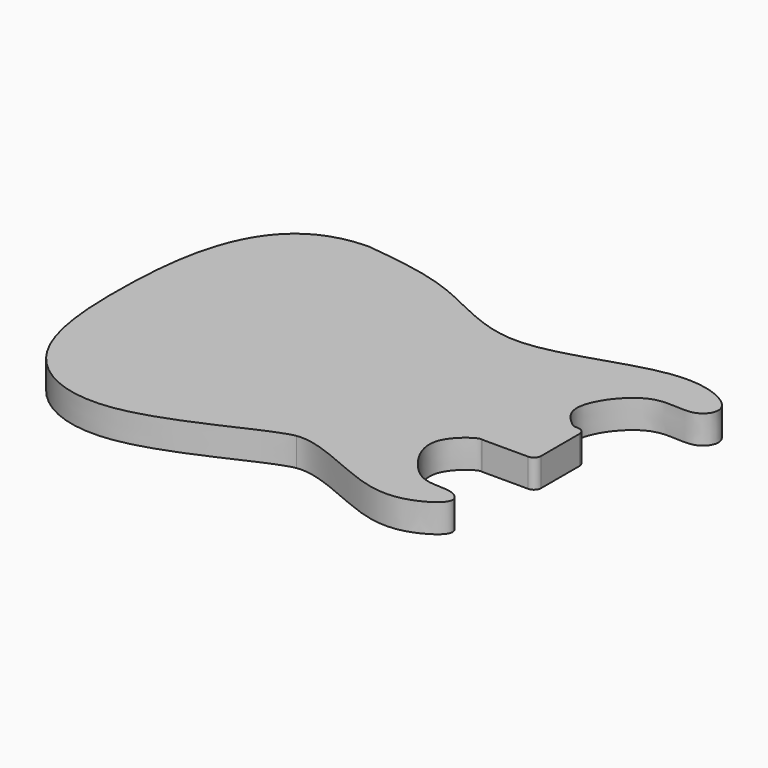
from build123d import *

# Parameters (mm, degrees)
F1_DEPTH = 25


with BuildPart() as f1:
    # F0 (on Top) → F1 (new body)
    with BuildSketch(Plane.XY):
        with BuildLine():
            add(Edge.make_bspline(
                [(375.4810937033, 190.0959920866), (367.8578445588, 196.0453478992), (352.587964027, 212.7756842018), (390.5307816379, 265.0147943615), (430.0464323129, 249.5095315542), (449.8517644907, 276.4450653343), (385.6563674938, 308.8708129295), (266.2528256827, 241.1990069181), (183.8060072093, 300.1389110058), (127.3522344266, 306.8049046537), (99.7850937892, 309.9854303337)],
                knots=[0.0058302243, 0.0058302243, 0.0058302243, 0.0058302243, 0.0884782239, 0.2081110794, 0.308946162, 0.3804730732, 0.4994709104, 0.6885492231, 0.8480419272, 1, 1, 1, 1], degree=3))
            add(Edge.make_bspline(
                [(99.7850937892, 309.9854303337), (17.6361805695, 309.1275825123), (-1.2685618729, 153.8888252521), (14.0290555241, 32.8720528766), (112.9673675609, -8.8604302271), (217.2425995664, 55.3141541761), (237.4262362719, 58.2440329475)],
                knots=[0, 0, 0, 0, 0.2945278607, 0.5383094395, 0.7469005514, 1, 1, 1, 1], degree=3))
            add(Edge.make_bspline(
                [(237.4262362719, 58.2440329475), (257.1546271203, 61.1078277327), (313.7611721175, 27.5157166252), (359.3531242037, 27.8835825043), (387.1879546129, 49.6457273701), (377.1131634712, 57.3217757046)],
                knots=[0, 0, 0, 0, 0.4223309711, 0.7614565043, 1, 1, 1, 1], degree=3))
            add(Edge.make_bspline(
                [(377.1131634712, 57.3217757046), (371.368656739, 61.6985524253), (350.6697166977, 58.6648801631), (330.3872807476, 72.0755549559), (304.8028874604, 113.2164252956), (337.2750039134, 135.4326581449), (340.4289186001, 133.7801814079)],
                knots=[0, 0, 0, 0, 0.2270148749, 0.4549033648, 0.7489741676, 1, 1, 1, 1], degree=3))
            Line((340.4289186001, 133.7801814079), (381.350676918, 133.7801814079))
            ThreePointArc((381.350676918, 133.7801814079), (385.8408049786, 135.6400533474), (387.700676918, 140.1301814079))
            Line((387.700676918, 140.1301814079), (387.700676918, 182.2991775513))
            ThreePointArc((387.700676918, 182.2991775513), (386.5408939759, 185.9576125845), (383.4851975818, 188.2796726425))
            ThreePointArc((383.4851975818, 188.2796726425), (382.6094543346, 188.5231617588), (381.7079185772, 188.6391206423))
            add(Edge.make_bspline(
                [(379.0975296412, 188.7585963099), (379.9676592865, 188.7187710874), (380.8377889319, 188.6789458648), (381.7079185772, 188.6391206423)],
                knots=[0, 0, 0, 0, 2.6131216642, 2.6131216642, 2.6131216642, 2.6131216642], degree=3))
            ThreePointArc((379.0975296412, 188.7585963099), (377.1853473904, 189.1461656261), (375.4810937033, 190.0959920866))
        make_face()
    extrude(amount=F1_DEPTH)


solid = f1.part
